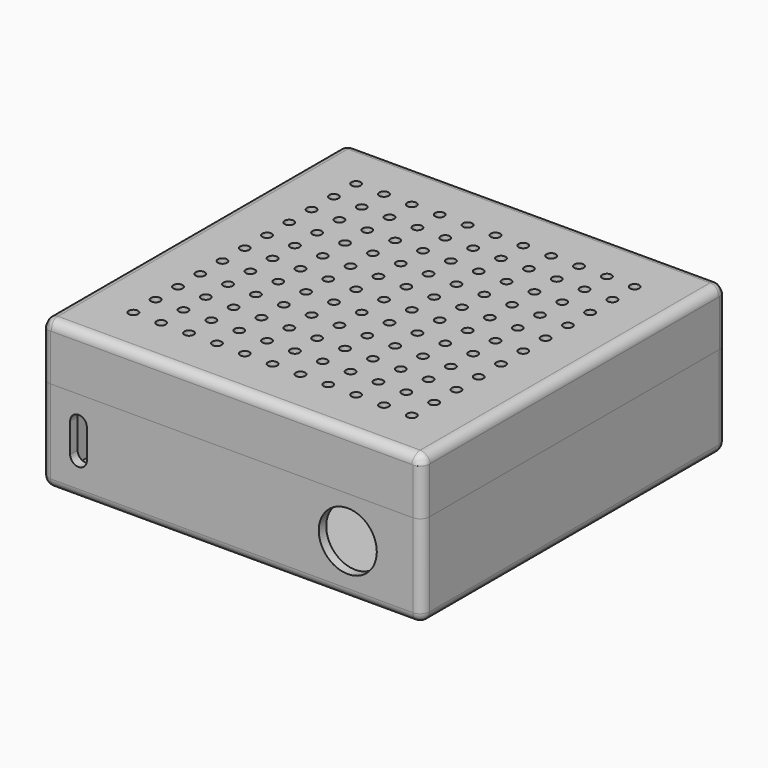
from build123d import *

# Parameters (mm, degrees)
SKETCH_W             = 78
SKETCH_H             = 78
PAD_DEPTH            = 18
THICKNESS_T          = 2
POCKET_DEPTH         = 50
SKETCH003_W          = 8.5
SKETCH003_H          = 10
PAD001_DEPTH         = 8
SKETCH005_R          = 1
POCKET001_DEPTH      = 20
BINDER002_R          = 3.25
POCKET002_DEPTH      = 20
SKETCH007_R          = 6.25
POCKET003_DEPTH      = 50
POCKET003_DEPTH_BACK = 50
POCKET004_DEPTH      = 36
POCKET004_DEPTH_BACK = 36
SKETCH017_W          = 82
SKETCH017_H          = 82
SKETCH017_W_2        = 78
SKETCH017_H_2        = 78
PAD008_DEPTH         = 12
FILLET_R             = 1.99
FILLET001_R          = 1.95
PAD003_DEPTH         = 35
PAD003_DEPTH_BACK    = 35
PAD004_DEPTH         = 35
PAD004_DEPTH_BACK    = 35
SKETCH013_W          = 78
SKETCH013_H          = 78
SKETCH013_R          = 1
PAD005_DEPTH         = 2
PAD006_START         = 20
SKETCH015_R          = 20
SKETCH015_R_2        = 18
PAD006_DEPTH         = 2
PAD007_DEPTH         = 2
PAD007_DEPTH_BACK    = 2


with BuildPart() as body_bottom:
    # Sketch → Pad (new body)
    with BuildSketch(Plane.XY):
        Rectangle(SKETCH_W, SKETCH_H)
    extrude(amount=PAD_DEPTH)

    # Thickness
    thickness_openings = [body_bottom.faces().sort_by_distance(p)[0] for p in [
        (0, 0, 18),
    ]]
    offset(amount=THICKNESS_T, openings=thickness_openings)

    # Sketch001 → Pocket (cut)
    with BuildSketch(Plane.XZ):
        with BuildLine():
            ThreePointArc((-31.2, 12.3), (-33, 14.1), (-34.8, 12.3))
            Line((-34.8, 12.3), (-34.8, 6))
            ThreePointArc((-34.8, 6), (-33, 4.2), (-31.2, 6))
            Line((-31.2, 6), (-31.2, 12.3))
        make_face()
    extrude(amount=POCKET_DEPTH, mode=Mode.SUBTRACT)

    # Sketch003 (on Face4 of Pocket) → Pad001 (join)
    with BuildSketch(Plane.XY):
        with Locations((-34.75, 24)):
            Rectangle(SKETCH003_W, SKETCH003_H)
    extrude(amount=PAD001_DEPTH)

    # Sketch005 → Pocket001 (cut)
    with BuildSketch(Plane.XY):
        with Locations((-36.25, 24)):
            Circle(SKETCH005_R)
    extrude(amount=POCKET001_DEPTH, mode=Mode.SUBTRACT)

    # Binder002 → Pocket002 (cut)
    with BuildSketch(Plane(origin=(-36.25, 31, 8.9), x_dir=(1, 0, 0), z_dir=(0, 1, 0))):
        Circle(BINDER002_R)
    extrude(amount=POCKET002_DEPTH, mode=Mode.SUBTRACT)

    # Sketch007 → Pocket003 (cut, two sides)
    with BuildSketch(Plane.XZ) as pocket003_sk:
        with Locations((25, 9)):
            Circle(SKETCH007_R)
    extrude(amount=-POCKET003_DEPTH, mode=Mode.SUBTRACT)
    extrude(pocket003_sk.sketch, amount=POCKET003_DEPTH_BACK, mode=Mode.SUBTRACT)

    # Sketch011 → Pocket004 (cut, two sides)
    with BuildSketch(Plane.XZ) as pocket004_sk:
        with BuildLine():
            Line((-39, 16), (-39, 13.5))
            ThreePointArc((-39, 16), (-40.25, 14.75), (-39, 13.5))
        make_face()
    pocket004 = extrude(amount=-POCKET004_DEPTH, mode=Mode.SUBTRACT) + extrude(pocket004_sk.sketch, amount=POCKET004_DEPTH_BACK, mode=Mode.SUBTRACT)

    # Mirrored: Pocket004 across Sketch011 V_Axis
    add(pocket004.mirror(Plane(origin=(0, 0, 0), x_dir=(0, -1, 0), z_dir=(1, 0, 0))), mode=Mode.SUBTRACT)


with BuildPart() as body_top:
    # Sketch017 → Pad008 (new body)
    with BuildSketch(Plane.XY):
        Rectangle(SKETCH017_W, SKETCH017_H)
        Rectangle(SKETCH017_W_2, SKETCH017_H_2, mode=Mode.SUBTRACT)
    extrude(amount=PAD008_DEPTH)

    # Fillet
    fillet_edges = [body_top.edges().sort_by_distance(p)[0] for p in [
        (41, 0, 12),
        (0, -41, 12),
        (-41, 0, 12),
        (0, 41, 12),
    ]]
    fillet(fillet_edges, radius=FILLET_R)

    # Fillet001
    fillet001_edges = [body_top.edges().sort_by_distance(p)[0] for p in [
        (41, 41, 5.005),
        (-41, 41, 5.005),
        (41, -41, 5.005),
        (-41, -41, 5.005),
    ]]
    fillet(fillet001_edges, radius=FILLET001_R)


with BuildPart() as body_top_1:
    # Body002 placement: moved
    add(body_top.part.moved(Location((0, 0, 18))))


with BuildPart() as body003:
    # Sketch010 → Pad003 (new body, two sides)
    with BuildSketch(Plane.XZ) as pad003_sk:
        with BuildLine():
            Line((-35, 28), (-35, 18))
            Line((-35, 18), (-35, 15.75))
            ThreePointArc((-39, 13.75), (-36.63603, 14.02206), (-35, 15.75))
            ThreePointArc((-39, 15.75), (-39.789257, 14.75), (-39, 13.75))
            Line((-39, 15.75), (-39, 18))
            Line((-39, 18), (-39, 28))
            Line((-39, 28), (-35, 28))
        make_face()
    extrude(amount=PAD003_DEPTH)
    extrude(pad003_sk.sketch, amount=-PAD003_DEPTH_BACK)


with BuildPart() as body004:
    # Sketch012 → Pad004 (new body, two sides)
    with BuildSketch(Plane.XZ) as pad004_sk:
        with BuildLine():
            Line((39, 22), (39, 9.75))
            ThreePointArc((39, 7.75), (40, 8.75), (39, 9.75))
            ThreePointArc((35, 11.75), (36.171573, 8.921573), (39, 7.75))
            Line((35, 11.75), (35, 22))
            Line((35, 22), (39, 22))
        make_face()
    extrude(amount=PAD004_DEPTH)
    extrude(pad004_sk.sketch, amount=-PAD004_DEPTH_BACK)


with BuildPart() as body004_1:
    # Body004 placement: moved
    add(body004.part.moved(Location((0, 0, 6))))


with BuildPart() as body_top_holes:
    # Sketch013 → Pad005 (new body)
    with BuildSketch(Plane.XY):
        Rectangle(SKETCH013_W, SKETCH013_H)
        with Locations((-30, 30)):
            Circle(SKETCH013_R, mode=Mode.SUBTRACT)
        with Locations((-24, 30)):
            Circle(SKETCH013_R, mode=Mode.SUBTRACT)
        with Locations((-18, 30)):
            Circle(SKETCH013_R, mode=Mode.SUBTRACT)
        with Locations((-12, 30)):
            Circle(SKETCH013_R, mode=Mode.SUBTRACT)
        with Locations((-6, 30)):
            Circle(SKETCH013_R, mode=Mode.SUBTRACT)
        with Locations((0, 30)):
            Circle(SKETCH013_R, mode=Mode.SUBTRACT)
        with Locations((-30, 24)):
            Circle(SKETCH013_R, mode=Mode.SUBTRACT)
        with Locations((-24, 24)):
            Circle(SKETCH013_R, mode=Mode.SUBTRACT)
        with Locations((-18, 24)):
            Circle(SKETCH013_R, mode=Mode.SUBTRACT)
        with Locations((-12, 24)):
            Circle(SKETCH013_R, mode=Mode.SUBTRACT)
        with Locations((-6, 24)):
            Circle(SKETCH013_R, mode=Mode.SUBTRACT)
        with Locations((-30, 18)):
            Circle(SKETCH013_R, mode=Mode.SUBTRACT)
        with Locations((-24, 18)):
            Circle(SKETCH013_R, mode=Mode.SUBTRACT)
        with Locations((-18, 18)):
            Circle(SKETCH013_R, mode=Mode.SUBTRACT)
        with Locations((-12, 18)):
            Circle(SKETCH013_R, mode=Mode.SUBTRACT)
        with Locations((-6, 18)):
            Circle(SKETCH013_R, mode=Mode.SUBTRACT)
        with Locations((-30, 12)):
            Circle(SKETCH013_R, mode=Mode.SUBTRACT)
        with Locations((-24, 12)):
            Circle(SKETCH013_R, mode=Mode.SUBTRACT)
        with Locations((-18, 12)):
            Circle(SKETCH013_R, mode=Mode.SUBTRACT)
        with Locations((-12, 12)):
            Circle(SKETCH013_R, mode=Mode.SUBTRACT)
        with Locations((-6, 12)):
            Circle(SKETCH013_R, mode=Mode.SUBTRACT)
        with Locations((-30, 6)):
            Circle(SKETCH013_R, mode=Mode.SUBTRACT)
        with Locations((-24, 6)):
            Circle(SKETCH013_R, mode=Mode.SUBTRACT)
        with Locations((-18, 6)):
            Circle(SKETCH013_R, mode=Mode.SUBTRACT)
        with Locations((-12, 6)):
            Circle(SKETCH013_R, mode=Mode.SUBTRACT)
        with Locations((-6, 6)):
            Circle(SKETCH013_R, mode=Mode.SUBTRACT)
        with Locations((-30, 0)):
            Circle(SKETCH013_R, mode=Mode.SUBTRACT)
        with Locations((-24, 0)):
            Circle(SKETCH013_R, mode=Mode.SUBTRACT)
        with Locations((-18, 0)):
            Circle(SKETCH013_R, mode=Mode.SUBTRACT)
        with Locations((-12, 0)):
            Circle(SKETCH013_R, mode=Mode.SUBTRACT)
        with Locations((-6, 0)):
            Circle(SKETCH013_R, mode=Mode.SUBTRACT)
        with Locations((-29.98825, -6)):
            Circle(SKETCH013_R, mode=Mode.SUBTRACT)
        with Locations((-23.98825, -6)):
            Circle(SKETCH013_R, mode=Mode.SUBTRACT)
        with Locations((-17.98825, -6)):
            Circle(SKETCH013_R, mode=Mode.SUBTRACT)
        with Locations((-11.98825, -6)):
            Circle(SKETCH013_R, mode=Mode.SUBTRACT)
        with Locations((-5.98825, -6)):
            Circle(SKETCH013_R, mode=Mode.SUBTRACT)
        with Locations((-29.98825, -12)):
            Circle(SKETCH013_R, mode=Mode.SUBTRACT)
        with Locations((-23.98825, -12)):
            Circle(SKETCH013_R, mode=Mode.SUBTRACT)
        with Locations((-17.98825, -12)):
            Circle(SKETCH013_R, mode=Mode.SUBTRACT)
        with Locations((-11.98825, -12)):
            Circle(SKETCH013_R, mode=Mode.SUBTRACT)
        with Locations((-5.98825, -12)):
            Circle(SKETCH013_R, mode=Mode.SUBTRACT)
        with Locations((-29.98825, -18)):
            Circle(SKETCH013_R, mode=Mode.SUBTRACT)
        with Locations((-23.98825, -18)):
            Circle(SKETCH013_R, mode=Mode.SUBTRACT)
        with Locations((-17.98825, -18)):
            Circle(SKETCH013_R, mode=Mode.SUBTRACT)
        with Locations((-11.98825, -18)):
            Circle(SKETCH013_R, mode=Mode.SUBTRACT)
        with Locations((-5.98825, -18)):
            Circle(SKETCH013_R, mode=Mode.SUBTRACT)
        with Locations((-29.98825, -24)):
            Circle(SKETCH013_R, mode=Mode.SUBTRACT)
        with Locations((-23.98825, -24)):
            Circle(SKETCH013_R, mode=Mode.SUBTRACT)
        with Locations((-17.98825, -24)):
            Circle(SKETCH013_R, mode=Mode.SUBTRACT)
        with Locations((-11.98825, -24)):
            Circle(SKETCH013_R, mode=Mode.SUBTRACT)
        with Locations((-5.98825, -24)):
            Circle(SKETCH013_R, mode=Mode.SUBTRACT)
        with Locations((-29.98825, -30)):
            Circle(SKETCH013_R, mode=Mode.SUBTRACT)
        with Locations((-23.98825, -30)):
            Circle(SKETCH013_R, mode=Mode.SUBTRACT)
        with Locations((-17.98825, -30)):
            Circle(SKETCH013_R, mode=Mode.SUBTRACT)
        with Locations((-11.98825, -30)):
            Circle(SKETCH013_R, mode=Mode.SUBTRACT)
        with Locations((-5.98825, -30)):
            Circle(SKETCH013_R, mode=Mode.SUBTRACT)
        with Locations((6, 30)):
            Circle(SKETCH013_R, mode=Mode.SUBTRACT)
        with Locations((12, 30)):
            Circle(SKETCH013_R, mode=Mode.SUBTRACT)
        with Locations((18, 30)):
            Circle(SKETCH013_R, mode=Mode.SUBTRACT)
        with Locations((24, 30)):
            Circle(SKETCH013_R, mode=Mode.SUBTRACT)
        with Locations((30, 30)):
            Circle(SKETCH013_R, mode=Mode.SUBTRACT)
        with Locations((0, 24)):
            Circle(SKETCH013_R, mode=Mode.SUBTRACT)
        with Locations((6, 24)):
            Circle(SKETCH013_R, mode=Mode.SUBTRACT)
        with Locations((12, 24)):
            Circle(SKETCH013_R, mode=Mode.SUBTRACT)
        with Locations((18, 24)):
            Circle(SKETCH013_R, mode=Mode.SUBTRACT)
        with Locations((24, 24)):
            Circle(SKETCH013_R, mode=Mode.SUBTRACT)
        with Locations((30, 24)):
            Circle(SKETCH013_R, mode=Mode.SUBTRACT)
        with Locations((0, 18)):
            Circle(SKETCH013_R, mode=Mode.SUBTRACT)
        with Locations((6, 18)):
            Circle(SKETCH013_R, mode=Mode.SUBTRACT)
        with Locations((12, 18)):
            Circle(SKETCH013_R, mode=Mode.SUBTRACT)
        with Locations((18, 18)):
            Circle(SKETCH013_R, mode=Mode.SUBTRACT)
        with Locations((24, 18)):
            Circle(SKETCH013_R, mode=Mode.SUBTRACT)
        with Locations((30, 18)):
            Circle(SKETCH013_R, mode=Mode.SUBTRACT)
        with Locations((0, 12)):
            Circle(SKETCH013_R, mode=Mode.SUBTRACT)
        with Locations((6, 12)):
            Circle(SKETCH013_R, mode=Mode.SUBTRACT)
        with Locations((12, 12)):
            Circle(SKETCH013_R, mode=Mode.SUBTRACT)
        with Locations((18, 12)):
            Circle(SKETCH013_R, mode=Mode.SUBTRACT)
        with Locations((24, 12)):
            Circle(SKETCH013_R, mode=Mode.SUBTRACT)
        with Locations((30, 12)):
            Circle(SKETCH013_R, mode=Mode.SUBTRACT)
        with Locations((0, 6)):
            Circle(SKETCH013_R, mode=Mode.SUBTRACT)
        with Locations((6, 6)):
            Circle(SKETCH013_R, mode=Mode.SUBTRACT)
        with Locations((12, 6)):
            Circle(SKETCH013_R, mode=Mode.SUBTRACT)
        with Locations((18, 6)):
            Circle(SKETCH013_R, mode=Mode.SUBTRACT)
        with Locations((24, 6)):
            Circle(SKETCH013_R, mode=Mode.SUBTRACT)
        with Locations((30, 6)):
            Circle(SKETCH013_R, mode=Mode.SUBTRACT)
        Circle(SKETCH013_R, mode=Mode.SUBTRACT)
        with Locations((6, 0)):
            Circle(SKETCH013_R, mode=Mode.SUBTRACT)
        with Locations((12, 0)):
            Circle(SKETCH013_R, mode=Mode.SUBTRACT)
        with Locations((18, 0)):
            Circle(SKETCH013_R, mode=Mode.SUBTRACT)
        with Locations((24, 0)):
            Circle(SKETCH013_R, mode=Mode.SUBTRACT)
        with Locations((30, 0)):
            Circle(SKETCH013_R, mode=Mode.SUBTRACT)
        with Locations((0, -6)):
            Circle(SKETCH013_R, mode=Mode.SUBTRACT)
        with Locations((6, -6)):
            Circle(SKETCH013_R, mode=Mode.SUBTRACT)
        with Locations((12, -6)):
            Circle(SKETCH013_R, mode=Mode.SUBTRACT)
        with Locations((18, -6)):
            Circle(SKETCH013_R, mode=Mode.SUBTRACT)
        with Locations((24, -6)):
            Circle(SKETCH013_R, mode=Mode.SUBTRACT)
        with Locations((30, -6)):
            Circle(SKETCH013_R, mode=Mode.SUBTRACT)
        with Locations((0, -12)):
            Circle(SKETCH013_R, mode=Mode.SUBTRACT)
        with Locations((6, -12)):
            Circle(SKETCH013_R, mode=Mode.SUBTRACT)
        with Locations((12, -12)):
            Circle(SKETCH013_R, mode=Mode.SUBTRACT)
        with Locations((18, -12)):
            Circle(SKETCH013_R, mode=Mode.SUBTRACT)
        with Locations((24, -12)):
            Circle(SKETCH013_R, mode=Mode.SUBTRACT)
        with Locations((30, -12)):
            Circle(SKETCH013_R, mode=Mode.SUBTRACT)
        with Locations((0, -18)):
            Circle(SKETCH013_R, mode=Mode.SUBTRACT)
        with Locations((6, -18)):
            Circle(SKETCH013_R, mode=Mode.SUBTRACT)
        with Locations((12, -18)):
            Circle(SKETCH013_R, mode=Mode.SUBTRACT)
        with Locations((18, -18)):
            Circle(SKETCH013_R, mode=Mode.SUBTRACT)
        with Locations((24, -18)):
            Circle(SKETCH013_R, mode=Mode.SUBTRACT)
        with Locations((30, -18)):
            Circle(SKETCH013_R, mode=Mode.SUBTRACT)
        with Locations((0, -24)):
            Circle(SKETCH013_R, mode=Mode.SUBTRACT)
        with Locations((6, -24)):
            Circle(SKETCH013_R, mode=Mode.SUBTRACT)
        with Locations((12, -24)):
            Circle(SKETCH013_R, mode=Mode.SUBTRACT)
        with Locations((18, -24)):
            Circle(SKETCH013_R, mode=Mode.SUBTRACT)
        with Locations((24, -24)):
            Circle(SKETCH013_R, mode=Mode.SUBTRACT)
        with Locations((30, -24)):
            Circle(SKETCH013_R, mode=Mode.SUBTRACT)
        with Locations((0, -30)):
            Circle(SKETCH013_R, mode=Mode.SUBTRACT)
        with Locations((6, -30)):
            Circle(SKETCH013_R, mode=Mode.SUBTRACT)
        with Locations((12, -30)):
            Circle(SKETCH013_R, mode=Mode.SUBTRACT)
        with Locations((18, -30)):
            Circle(SKETCH013_R, mode=Mode.SUBTRACT)
        with Locations((24, -30)):
            Circle(SKETCH013_R, mode=Mode.SUBTRACT)
        with Locations((30, -30)):
            Circle(SKETCH013_R, mode=Mode.SUBTRACT)
    extrude(amount=PAD005_DEPTH)


with BuildPart() as body_top_holes_1:
    # Body006 placement: moved
    add(body_top_holes.part.moved(Location((0, 0, 28))))


with BuildPart() as body007_speaker_holder:
    # Sketch015 → Pad006 (new body)
    with BuildSketch(Plane.XY.offset(PAD006_START)):
        Circle(SKETCH015_R)
        Circle(SKETCH015_R_2, mode=Mode.SUBTRACT)
    extrude(amount=PAD006_DEPTH)

    # Sketch016 → Pad007 (join, two sides)
    with BuildSketch(Plane.XZ) as pad007_sk:
        with BuildLine():
            Line((-20, 20), (-18, 20))
            ThreePointArc((-17.950936, 18.601722), (-17.300431, 19.324547), (-18, 20))
            ThreePointArc((-20, 20), (-19.218447, 18.944794), (-17.950936, 18.601722))
        make_face()
    pad007 = extrude(amount=PAD007_DEPTH) + extrude(pad007_sk.sketch, amount=-PAD007_DEPTH_BACK)

    # Mirrored001: Pad007 across Sketch016 V_Axis
    add(pad007.mirror(Plane(origin=(0, 0, 0), x_dir=(0, -1, 0), z_dir=(1, 0, 0))))


with BuildPart() as body007_speaker_holder_1:
    # Body007 placement: moved
    add(body007_speaker_holder.part.moved(Location((0, 0, 6))))


solid = Compound([body_bottom.part, body_top_1.part, body003.part, body004_1.part, body_top_holes_1.part, body007_speaker_holder_1.part])
